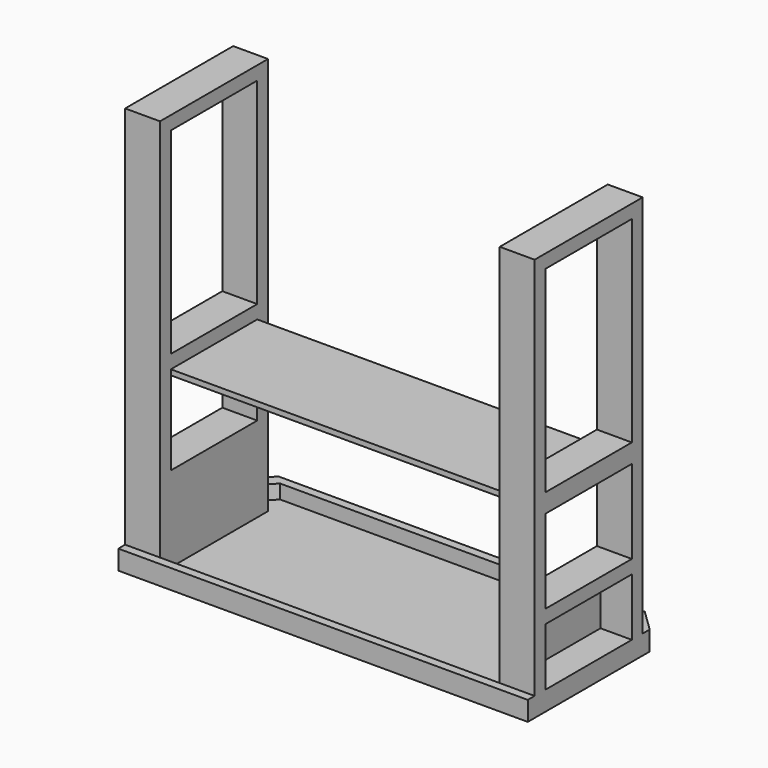
from build123d import *

# Parameters (mm, degrees)
F1_DEPTH  = 7.5
F2_DEPTH  = 47
F3_W      = 98
F3_H      = 38
F3_H_2    = 303.1999886395
F4_DEPTH  = 1080
F5_W      = 303.1999886395
F5_H      = 552.5
F5_H_2    = 235
F6_DEPTH  = 1150.001
F7_DEPTH  = 1150
F8_W      = 954
F8_H      = 379.1999886395
F9_DEPTH  = 49
F5_H_3    = 162
F10_DEPTH = 1150
F11_W     = 303.1999886395
F11_H     = 162
F12_DEPTH = 10
F13_W     = 303.1999886395
F13_H     = 162
F14_DEPTH = 10
F5_H_4    = 15
F15_DEPTH = 1150


with BuildPart() as f1:
    # F0 (on Top) → F1 (new body, symmetric)
    with BuildSketch(Plane.XY):
        Polygon((550.5168708265, 71.7507553279), (574.5168708265, 96.5507666884), (513.4356752447, 155.6615740446), (490.2098794325, 131.6615740446), align=None)
        Polygon((513.4356752447, 155.6615740446), (-514.4019335917, 155.6615740446), (-491.1761377795, 131.6615740446), (490.2098794325, 131.6615740446), align=None)
        Polygon((-514.4019335917, 155.6615740446), (-575.4831291735, 96.5507666884), (-551.4831291735, 71.7507553279), (-491.1761377795, 131.6615740446), align=None)
        Polygon((-575.4831291735, 96.5507666884), (-575.4831291735, -331.4492333116), (-551.4831291735, -307.4492333116), (-551.4831291735, 71.7507553279), align=None)
        Polygon((550.5168708265, -307.4492333116), (574.5168708265, -331.4492333116), (574.5168708265, 96.5507666884), (550.5168708265, 71.7507553279), align=None)
        Polygon((-551.4831291735, -307.4492333116), (-575.4831291735, -331.4492333116), (574.5168708265, -331.4492333116), (550.5168708265, -307.4492333116), align=None)
        Polygon((-551.4831291735, 71.7507553279), (-551.4831291735, -307.4492333116), (550.5168708265, -307.4492333116), (550.5168708265, 71.7507553279), (490.2098794325, 131.6615740446), (-491.1761377795, 131.6615740446), align=None)
    extrude(amount=F1_DEPTH, both=True)

    # F0 (on Top) → F2 (join)
    with BuildSketch(Plane.XY):
        Polygon((-551.4831291735, -307.4492333116), (-575.4831291735, -331.4492333116), (574.5168708265, -331.4492333116), (550.5168708265, -307.4492333116), align=None)
        Polygon((-575.4831291735, 96.5507666884), (-575.4831291735, -331.4492333116), (-551.4831291735, -307.4492333116), (-551.4831291735, 71.7507553279), align=None)
        Polygon((550.5168708265, -307.4492333116), (574.5168708265, -331.4492333116), (574.5168708265, 96.5507666884), (550.5168708265, 71.7507553279), align=None)
        Polygon((-514.4019335917, 155.6615740446), (-575.4831291735, 96.5507666884), (-551.4831291735, 71.7507553279), (-491.1761377795, 131.6615740446), align=None)
        Polygon((550.5168708265, 71.7507553279), (574.5168708265, 96.5507666884), (513.4356752447, 155.6615740446), (490.2098794325, 131.6615740446), align=None)
        Polygon((513.4356752447, 155.6615740446), (-514.4019335917, 155.6615740446), (-491.1761377795, 131.6615740446), (490.2098794325, 131.6615740446), align=None)
    extrude(amount=F2_DEPTH)

    # F3 (on face) → F4 (join)
    with BuildSketch(Plane.XY.offset(7.5)):
        with Locations((-526.4831291735, -288.4492333116)):
            Rectangle(F3_W, F3_H)
        with Locations((-526.4831291735, -117.8492389919)):
            Rectangle(F3_W, F3_H_2)
        with Locations((-526.4831291735, 52.7507553279)):
            Rectangle(F3_W, F3_H)
        with Locations((525.5168708265, -288.4492333116)):
            Rectangle(F3_W, F3_H)
        with Locations((525.5168708265, -117.8492389919)):
            Rectangle(F3_W, F3_H_2)
        with Locations((525.5168708265, 52.7507553279)):
            Rectangle(F3_W, F3_H)
    extrude(amount=F4_DEPTH)

    # F5 (on face) → F6 (cut, through all)
    with BuildSketch(Plane(origin=(-575.4831291735, 0, 0), x_dir=(0, -1, 0), z_dir=(-1, 0, 0))):
        with Locations((117.8492389919, 811.25)):
            Rectangle(F5_W, F5_H)
        with Locations((117.8492389919, 364.5)):
            Rectangle(F5_W, F5_H_2)
    extrude(amount=-F6_DEPTH, mode=Mode.SUBTRACT)

    # F5 (on face) → F7 (join)
    with BuildSketch(Plane(origin=(-575.4831291735, 0, 0), x_dir=(0, -1, 0), z_dir=(-1, 0, 0))):
        Polygon((-71.7507553279, 1087.5), (-33.7507553279, 1087.5), (269.4492333116, 1087.5), (307.4492333116, 1087.5), (307.4492333116, 1125.5), (-71.7507553279, 1125.5), align=None)
    extrude(amount=-F7_DEPTH)

    # F8 (on face) → F9 (cut, symmetric)
    with BuildSketch(Plane.XY.offset(1125.5)):
        with Locations((-0.4831291735, -117.8492389919)):
            Rectangle(F8_W, F8_H)
    extrude(amount=F9_DEPTH, both=True, mode=Mode.SUBTRACT)

    # F5 (on face) → F10 (cut)
    with BuildSketch(Plane(origin=(-575.4831291735, 0, 0), x_dir=(0, -1, 0), z_dir=(-1, 0, 0))):
        with Locations((117.8492389919, 128)):
            Rectangle(F5_W, F5_H_3)
    extrude(amount=-F10_DEPTH, mode=Mode.SUBTRACT)

    # F11 (on face) → F12 (join)
    with BuildSketch(Plane.YZ.offset(-477.4831291735)):
        with Locations((-117.8492389919, 128)):
            Rectangle(F11_W, F11_H)
    extrude(amount=-F12_DEPTH)

    # F13 (on face) → F14 (join)
    with BuildSketch(Plane(origin=(476.5168708265, 0, 0), x_dir=(0, -1, 0), z_dir=(-1, 0, 0))):
        with Locations((117.8492389919, 128)):
            Rectangle(F13_W, F13_H)
    extrude(amount=-F14_DEPTH)

    # F5 (on face) → F15 (join)
    with BuildSketch(Plane(origin=(-575.4831291735, 0, 0), x_dir=(0, -1, 0), z_dir=(-1, 0, 0))):
        with Locations((117.8492389919, 489.5)):
            Rectangle(F5_W, F5_H_4)
    extrude(amount=-F15_DEPTH)


solid = f1.part
